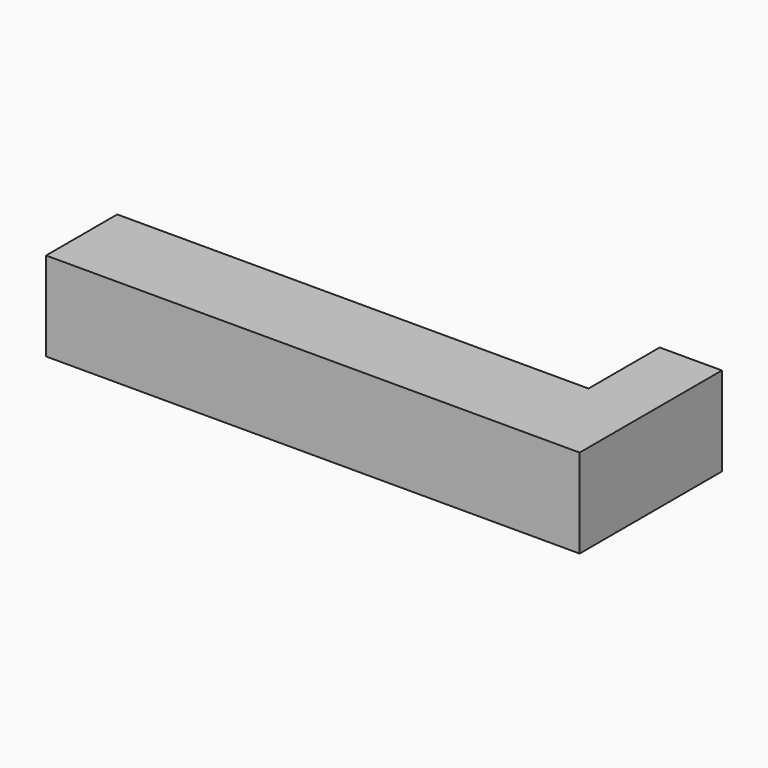
from build123d import *

# Parameters (mm, degrees)
F0_W     = 25.4
F0_H     = 25.4
F1_DEPTH = 152.4
F2_W     = 17.78
F2_H     = 25.4
F3_DEPTH = 25.4


with BuildPart() as f1:
    # F0 (on Right) → F1 (new body)
    with BuildSketch(Plane.YZ):
        with Locations((22.485124, 17.520127)):
            Rectangle(F0_W, F0_H)
    extrude(amount=-F1_DEPTH)

    # F2 (on face) → F3 (join)
    with BuildSketch(Plane(origin=(0, 35.185124, 0), x_dir=(-1, 0, 0), z_dir=(0, 1, 0))):
        with Locations((8.89, 17.520127)):
            Rectangle(F2_W, F2_H)
    extrude(amount=F3_DEPTH)


solid = f1.part
